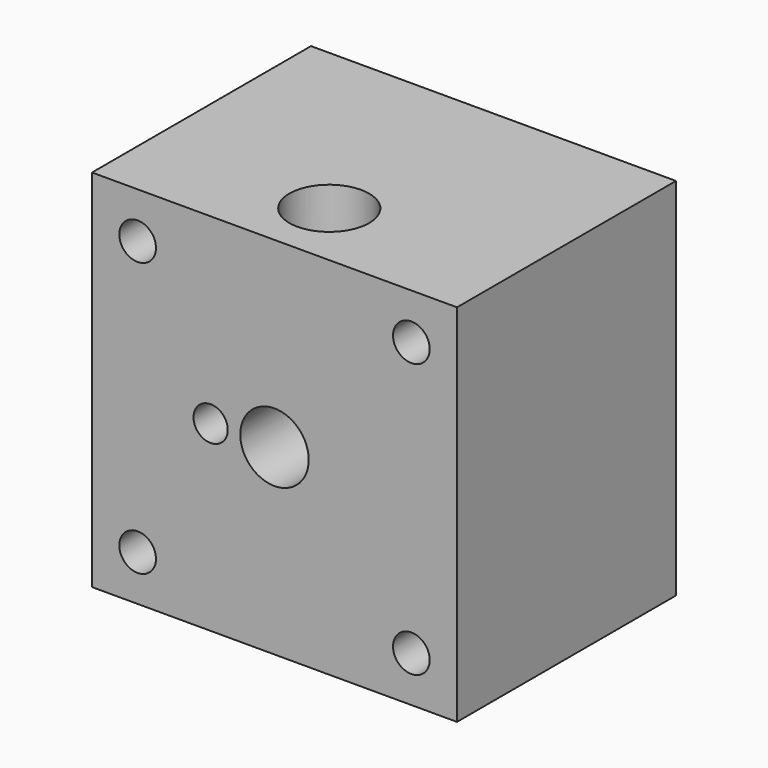
from build123d import *

# Parameters (mm, degrees)
F0_W      = 50.8
F0_H      = 50.8
F1_DEPTH  = 19.05
F2_R      = 4.7625
F3_DEPTH  = 15.24
F4_R      = 1.5875
F5_DEPTH  = 33.02
F6_R      = 5.55625
F7_DEPTH  = 9.525
F8_R      = 2.38125
F9_DEPTH  = 38.1
F10_R     = 5.55625
F11_DEPTH = 9.525
F12_R     = 2.5527
F13_DEPTH = 19.05


with BuildPart() as f1:
    # F0 (on Front) → F1 (new body, symmetric)
    with BuildSketch(Plane.XZ):
        Rectangle(F0_W, F0_H)
    extrude(amount=F1_DEPTH, both=True)

    # F2 (on face) → F3 (cut)
    with BuildSketch(Plane.XZ.offset(19.05)):
        Circle(F2_R)
    extrude(amount=-F3_DEPTH, mode=Mode.SUBTRACT)

    # F4 (on face) → F5 (cut)
    with BuildSketch(Plane.XY.offset(25.4)):
        with Locations((0, -9.525)):
            Circle(F4_R)
    extrude(amount=-F5_DEPTH, mode=Mode.SUBTRACT)

    # F6 (on face) → F7 (cut)
    with BuildSketch(Plane.XY.offset(25.4)):
        with Locations((0, -9.525)):
            Circle(F6_R)
    extrude(amount=-F7_DEPTH, mode=Mode.SUBTRACT)

    # F8 (on face) → F9 (cut, through all)
    with BuildSketch(Plane.XZ.offset(19.05)):
        with Locations((-8.89, 0)):
            Circle(F8_R)
    extrude(amount=-F9_DEPTH, mode=Mode.SUBTRACT)

    # F10 (on face) → F11 (cut)
    with BuildSketch(Plane(origin=(0, 19.05, 0), x_dir=(-1, 0, 0), z_dir=(0, 1, 0))):
        with Locations((8.89, 0)):
            Circle(F10_R)
    extrude(amount=-F11_DEPTH, mode=Mode.SUBTRACT)

    # F12 (on face) → F13 (cut)
    with BuildSketch(Plane.XZ.offset(19.05)):
        with Locations((-19.05, 19.05)):
            Circle(F12_R)
        with Locations((19.05, 19.05)):
            Circle(F12_R)
        with Locations((-19.05, -19.05)):
            Circle(F12_R)
        with Locations((19.05, -19.05)):
            Circle(F12_R)
    extrude(amount=-F13_DEPTH, mode=Mode.SUBTRACT)


solid = f1.part
